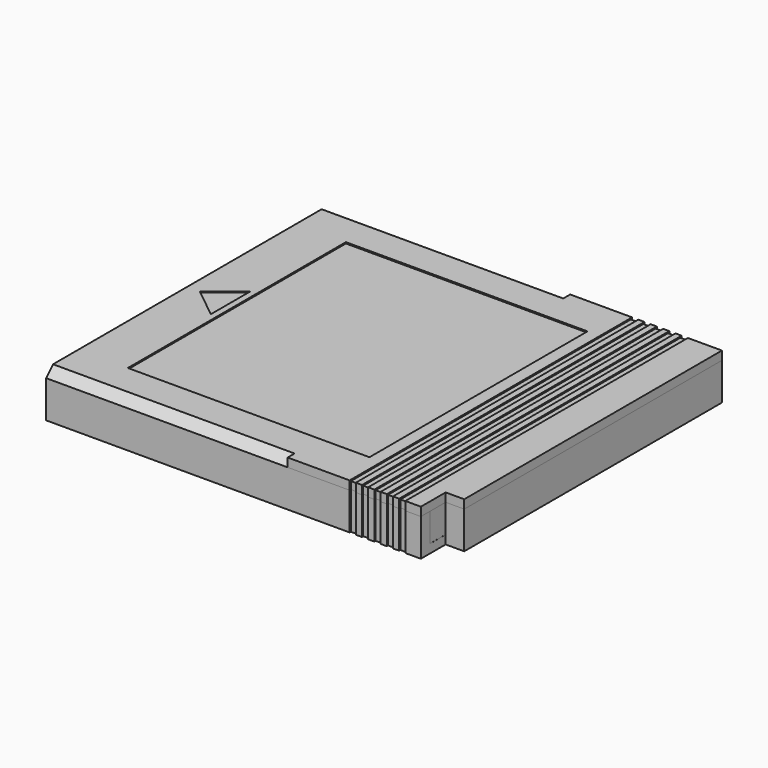
from build123d import *

# Parameters (mm, degrees)
PAD_DEPTH       = 60.5
SKETCH001_R     = 3.75
PAD001_DEPTH    = 1.5
FILLET_R        = 0.5
POCKET_DEPTH    = 0.2
SKETCH003_W     = 52
SKETCH003_H     = 3
PAD002_DEPTH    = 1.4
PAD003_DEPTH    = 4.6
SKETCH005_R     = 2.5
POCKET001_DEPTH = 2
POCKET004_DEPTH = 6
PAD004_DEPTH    = 1.4
PAD005_DEPTH    = 3.5
SKETCH008_R     = 2.5
PAD006_DEPTH    = 3
SKETCH009_W     = 39
SKETCH009_H     = 44
POCKET002_DEPTH = 0.2
POCKET003_DEPTH = 39
POCKET005_DEPTH = 1.5
SKETCH013_W     = 1
SKETCH013_H     = 56.5
POCKET006_DEPTH = 0.2


with BuildPart() as base:
    # Sketch → Pad (new body)
    with BuildSketch(Plane.YZ):
        Polygon((-28.5, 0), (-28.5, 6), (-26.7, 6), (-26.7, 1.4), (26.7, 1.4), (26.7, 6), (28.5, 6), (28.5, 0), align=None)
    extrude(amount=PAD_DEPTH)

    # Sketch001 (on Face4 of Pad) → Pad001 (join)
    with BuildSketch(Plane(origin=(0, 0, 1.4), x_dir=(0, -1, 0), z_dir=(0, 0, 1))):
        with Locations((0, 16)):
            Circle(SKETCH001_R)
    extrude(amount=PAD001_DEPTH)

    # Fillet
    fillet_edges = [base.edges().sort_by_distance(p)[0] for p in [
        (16, 3.75, 2.9),
    ]]
    fillet(fillet_edges, radius=FILLET_R)

    # Sketch002 (on Face3 of Fillet) → Pocket (cut)
    with BuildSketch(Plane(origin=(0, 0, 1.4), x_dir=(0, -1, 0), z_dir=(0, 0, 1))):
        Polygon((0, 2.5), (-2.5, 6.830127), (2.5, 6.830127), align=None)
    extrude(amount=-POCKET_DEPTH, mode=Mode.SUBTRACT)

    # Sketch003 (on Face3 of Pocket) → Pad002 (join)
    with BuildSketch(Plane(origin=(0, 0, 1.4), x_dir=(0, -1, 0), z_dir=(0, 0, 1))):
        with Locations((-2.5, 62)):
            Rectangle(SKETCH003_W, SKETCH003_H)
    extrude(amount=-PAD002_DEPTH)

    # Sketch004 (on Face3 of Pad002) → Pad003 (join)
    with BuildSketch(Plane(origin=(0, 0, 1.4), x_dir=(0, -1, 0), z_dir=(0, 0, 1))):
        Polygon((-28.5, 60.5), (-28.5, 63.5), (23.5, 63.5), (23.5, 60.49), (26.7, 60.49), (26.7, 58.69), (21.7, 58.69), (21.7, 61.7), (-26.7, 61.7), (-26.7, 60.5), align=None)
    extrude(amount=PAD003_DEPTH)

    # Sketch005 (on Face18 of Pad003) → Pocket001 (cut)
    with BuildSketch(Plane.YX):
        with Locations((0, 16)):
            Circle(SKETCH005_R)
    extrude(amount=-POCKET001_DEPTH, mode=Mode.SUBTRACT)

    # Sketch011 (on Face18 of Pocket001) → Pocket004 (cut)
    with BuildSketch(Plane.YX):
        Polygon((-30.25, 58), (-28.25, 58), (-28.25, 57), (-29.25, 57), (-29.25, 56), (-28.25, 56), (-28.25, 55), (-29.25, 55), (-29.25, 54), (-28.25, 54), (-28.25, 53), (-29.25, 53), (-29.25, 52), (-28.25, 52), (-28.25, 51), (-29.25, 51), (-29.25, 50), (-28.25, 50), (-28.25, 49), (-30.25, 49), align=None)
        Polygon((31.25, 58), (28.25, 58), (28.25, 57), (30.25, 57), (30.25, 56), (28.25, 56), (28.25, 55), (30.25, 55), (30.25, 54), (28.25, 54), (28.25, 53), (30.25, 53), (30.25, 52), (28.25, 52), (28.25, 51), (30.25, 51), (30.25, 50), (28.25, 50), (28.25, 49), (31.25, 49), align=None)
    extrude(amount=-POCKET004_DEPTH, mode=Mode.SUBTRACT)


with BuildPart() as lid:
    # Sketch006 → Pad004 (new body)
    with BuildSketch(Plane.XY):
        Polygon((0, 28.5), (63.5, 28.5), (63.5, -23.5), (60.5, -23.5), (60.5, -28.5), (0, -28.5), align=None)
    extrude(amount=PAD004_DEPTH)

    # Sketch007 (on Face7 of Pad004) → Pad005 (join)
    with BuildSketch(Plane(origin=(0, 0, 0), x_dir=(1, 0, 0), z_dir=(0, 0, -1))):
        Polygon((8.5, 26), (58.3, 26), (58.3, 21), (61.5, 21), (61.5, -26), (8.5, -26), align=None)
        Polygon((9.5, 25), (57.3, 25), (57.3, 20), (60.5, 20), (60.5, -25), (9.5, -25), align=None, mode=Mode.SUBTRACT)
    extrude(amount=PAD005_DEPTH)

    # Sketch008 (on Face22 of Pad005) → Pad006 (join)
    with BuildSketch(Plane(origin=(0, 0, 0), x_dir=(1, 0, 0), z_dir=(0, 0, -1))):
        with Locations((16, 0)):
            Circle(SKETCH008_R)
    extrude(amount=PAD006_DEPTH)

    # Sketch009 (on Face5 of Pad006) → Pocket002 (cut)
    with BuildSketch(Plane.XY.offset(1.4)):
        Polygon((2, 0), (7, 4), (7, -4), align=None)
        with Locations((27.5, 0)):
            Rectangle(SKETCH009_W, SKETCH009_H)
    extrude(amount=-POCKET002_DEPTH, mode=Mode.SUBTRACT)

    # Sketch010 (on Face2 of Pocket002) → Pocket003 (cut)
    with BuildSketch(Plane(origin=(0, 0, 0), x_dir=(0, -1, 0), z_dir=(-1, 0, 0))):
        Polygon((-28.5, 0), (-27.1, 1.4), (-28.5, 1.4), align=None)
        Polygon((27.1, 1.4), (28.5, 0), (28.5, 1.4), align=None)
    extrude(amount=-POCKET003_DEPTH, mode=Mode.SUBTRACT)

    # Sketch012 (on Face16 of Pocket003) → Pocket005 (cut)
    with BuildSketch(Plane.XY.offset(1.4)):
        Polygon((58, 31.25), (58, 28.25), (57, 28.25), (57, 30.25), (56, 30.25), (56, 28.25), (55, 28.25), (55, 30.25), (54, 30.25), (54, 28.25), (53, 28.25), (53, 30.25), (52, 30.25), (52, 28.25), (51, 28.25), (51, 30.25), (50, 30.25), (50, 28.25), (49, 28.25), (49, 31.25), align=None)
        Polygon((58, -31.25), (58, -28.25), (57, -28.25), (57, -30.25), (56, -30.25), (56, -28.25), (55, -28.25), (55, -30.25), (54, -30.25), (54, -28.25), (53, -28.25), (53, -30.25), (52, -30.25), (52, -28.25), (51, -28.25), (51, -30.25), (50, -30.25), (50, -28.25), (49, -28.25), (49, -31.25), align=None)
    extrude(amount=-POCKET005_DEPTH, mode=Mode.SUBTRACT)

    # Sketch013 (on Face56 of Pocket005) → Pocket006 (cut)
    with BuildSketch(Plane.XY.offset(1.4)):
        with Locations((49.5, 0)):
            Rectangle(SKETCH013_W, SKETCH013_H)
        with Locations((51.5, 0)):
            Rectangle(SKETCH013_W, SKETCH013_H)
        with Locations((53.5, 0)):
            Rectangle(SKETCH013_W, SKETCH013_H)
        with Locations((55.5, 0)):
            Rectangle(SKETCH013_W, SKETCH013_H)
        with Locations((57.5, 0)):
            Rectangle(SKETCH013_W, SKETCH013_H)
    extrude(amount=-POCKET006_DEPTH, mode=Mode.SUBTRACT)


with BuildPart() as lid_1:
    # Body001 placement: moved
    add(lid.part.moved(Location((0, 0, 6))))


solid = Compound([base.part, lid_1.part])
